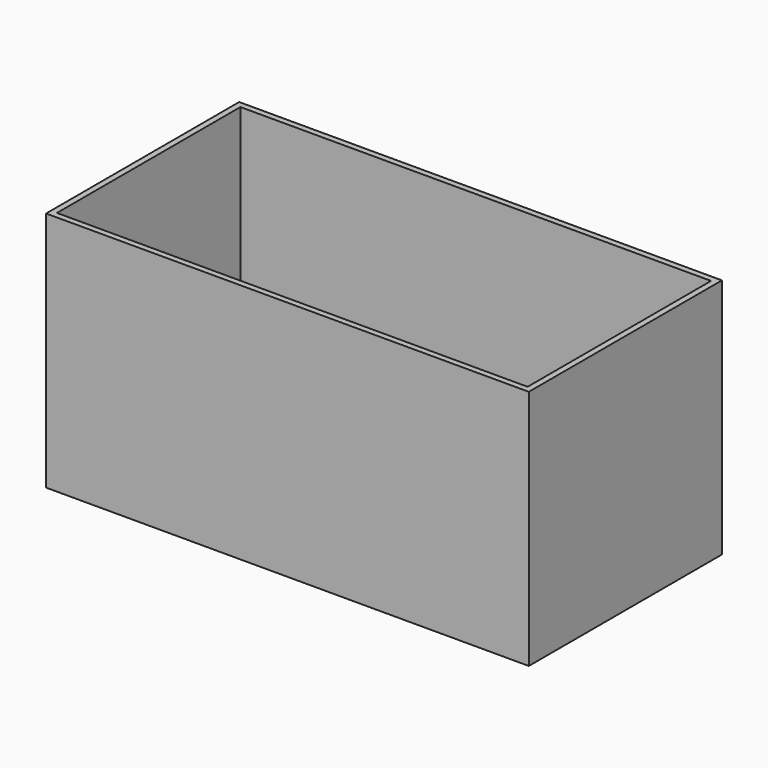
from build123d import *

# Parameters (mm, degrees)
F1_W     = 254
F1_H     = 127
F2_DEPTH = 3.175
F0_W     = 254
F0_H     = 127
F0_W_2   = 247.65
F0_H_2   = 120.65
F3_DEPTH = 127


with BuildPart() as f2:
    # F1 (on Top) → F2 (new body)
    with BuildSketch(Plane.XY):
        with Locations((127, 63.5)):
            Rectangle(F1_W, F1_H)
    extrude(amount=F2_DEPTH)

    # F0 (on Top) → F3 (join)
    with BuildSketch(Plane.XY):
        with Locations((127, 63.5)):
            Rectangle(F0_W, F0_H)
        with Locations((127, 63.5)):
            Rectangle(F0_W_2, F0_H_2, mode=Mode.SUBTRACT)
    extrude(amount=F3_DEPTH)


solid = f2.part
